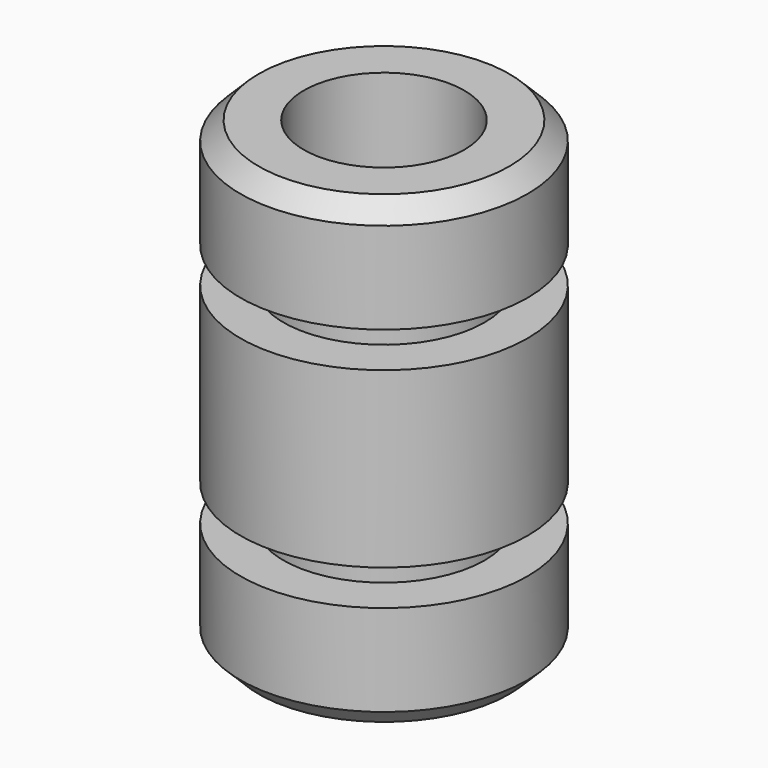
from build123d import *

# Parameters (mm, degrees)
F0_R      = 7.85
F0_R_2    = 4.39
F1_DEPTH  = 6
F2_R      = 5.5
F2_R_2    = 4.39
F3_DEPTH  = 1.95
F4_R      = 7.85
F4_R_2    = 5.5
F5_DEPTH  = 9.5
F6_DEPTH  = 9.5
F8_R      = 5.5
F8_R_2    = 4.39
F9_DEPTH  = 1.95
F10_R     = 7.85
F10_R_2   = 5.5
F10_R_3   = 4.39
F11_DEPTH = 6
F12_SIZE  = 1
F13_SIZE  = 1


with BuildPart() as f1:
    # F0 (on Top) → F1 (new body)
    with BuildSketch(Plane.XY):
        Circle(F0_R)
        Circle(F0_R_2, mode=Mode.SUBTRACT)
    extrude(amount=F1_DEPTH)

    # F2 (on face) → F3 (join)
    with BuildSketch(Plane.XY.offset(6)):
        Circle(F2_R)
        Circle(F2_R_2, mode=Mode.SUBTRACT)
    extrude(amount=F3_DEPTH)


with BuildPart() as f5:
    # F4 (on face) → F5 (new body)
    with BuildSketch(Plane.XY.offset(7.95)):
        Circle(F4_R)
        Circle(F4_R_2, mode=Mode.SUBTRACT)
    extrude(amount=F5_DEPTH)


with BuildPart() as f6:
    # F6 (new): a face of the model
    f6_faces = [f1.part.faces().sort_by_distance(p)[0] for p in [
        (-5.3444365081, 0, 7.95),
    ]]
    extrude(f6_faces, amount=F6_DEPTH)


with BuildPart() as f1_1:
    add(f1.part)

    # F7: union F5, F6
    add(f5.part)
    add(f6.part)

    # F8 (on face) → F9 (join)
    with BuildSketch(Plane.XY.offset(17.45)):
        Circle(F8_R)
        Circle(F8_R_2, mode=Mode.SUBTRACT)
    extrude(amount=F9_DEPTH)

    # F10 (on face) → F11 (join)
    with BuildSketch(Plane.XY.offset(19.4)):
        Circle(F10_R)
        Circle(F10_R_2, mode=Mode.SUBTRACT)
        Circle(F10_R_2)
        Circle(F10_R_3, mode=Mode.SUBTRACT)
    extrude(amount=F11_DEPTH)

    # F12
    f12_edges = [f1_1.edges().sort_by_distance(p)[0] for p in [
        (-7.85, 0, 25.4),
    ]]
    chamfer(f12_edges, length=F12_SIZE)

    # F13
    f13_edges = [f1_1.edges().sort_by_distance(p)[0] for p in [
        (-7.85, 0, 0),
    ]]
    chamfer(f13_edges, length=F13_SIZE)


solid = f1_1.part
